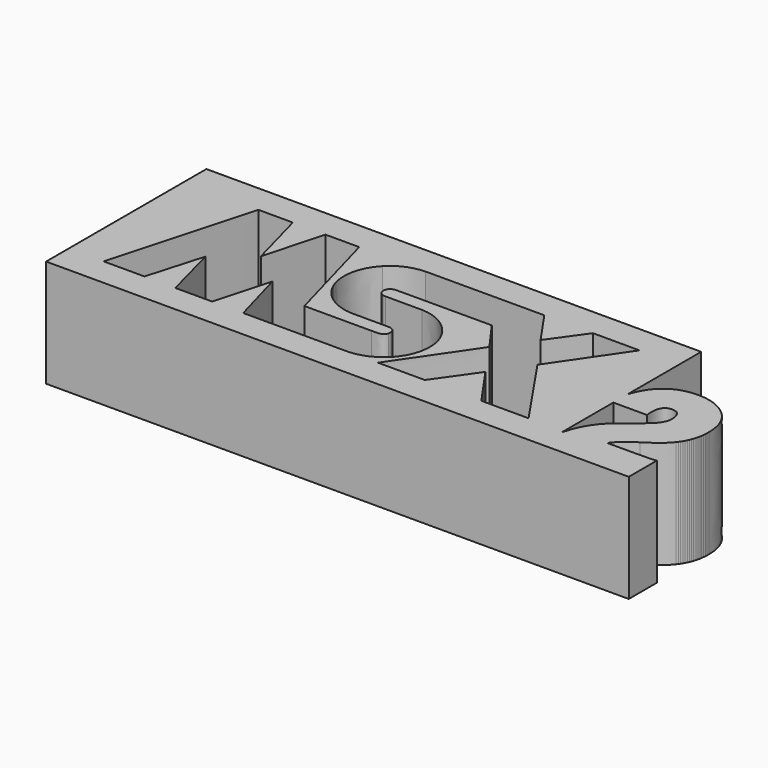
from build123d import *

# Parameters (mm, degrees)
EXTRUDE002_DEPTH = 16
EXTRUDE001_DEPTH = 16
EXTRUDE_DEPTH    = 10


with BuildPart() as extrude002:
    # path2410002 → Extrude002 (new body)
    with BuildSketch(Plane(origin=(49.495824, -13.706795, 0), x_dir=(0, -1, 0), z_dir=(0, 0, -1))):
        with BuildLine():
            add(Edge.make_bspline(
                [(-3.922172, -1.544505), (-3.922172, -2.158333), (-3.514202, -2.468342), (-2.696821, -2.468342)],
                knots=[0, 0, 0, 0, 1, 1, 1, 1], degree=3))
            add(Edge.make_bspline(
                [(-2.696821, -2.468342), (-2.176124, -2.468342), (-1.655065, -2.158333), (-1.135779, -1.544505)],
                knots=[0, 0, 0, 0, 1, 1, 1, 1], degree=3))
            add(Edge.make_bspline(
                [(-1.135779, -1.544505), (-0.424584, -0.680205), (0.108801, -0.030865), (0.464399, 0.410104)],
                knots=[0, 0, 0, 0, 1, 1, 1, 1], degree=3))
            add(Edge.make_bspline(
                [(0.464399, 0.410104), (1.335802, 1.436798), (2.489409, 2.121768), (3.922172, 2.468342)],
                knots=[0, 0, 0, 0, 1, 1, 1, 1], degree=3))
            add(Edge.make_bspline(
                [(3.922172, 2.468342), (-2.09324, 2.468342)],
                knots=[0, 0, 21.314453, 21.314453], degree=1))
            add(Edge.make_bspline(
                [(-2.09324, 2.468342), (-2.09324, -0.673034)],
                knots=[0, 0, 11.13086, 11.13086], degree=1))
            add(Edge.make_bspline(
                [(-2.09324, -0.673034), (-2.260103, -0.637756), (-2.437839, -0.623425), (-2.625163, -0.623425)],
                knots=[0, 0, 0, 0, 1, 1, 1, 1], degree=3))
            add(Edge.make_bspline(
                [(-2.625163, -0.623425), (-3.490521, -0.623425), (-3.922172, -0.930674), (-3.922172, -1.544505)],
                knots=[0, 0, 0, 0, 1, 1, 1, 1], degree=3))
        make_face()
    extrude(amount=-EXTRUDE002_DEPTH)


with BuildPart() as extrude002_1:
    # Extrude002 placement: moved
    add(extrude002.part.moved(Location((0, 0, -4))))


with BuildPart() as fusion:
    # path2410001 → Extrude001 (new body)
    with BuildSketch(Plane(origin=(24.024993, -10.743744, 0), x_dir=(0, -1, 0), z_dir=(0, 0, -1))):
        with BuildLine():
            add(Edge.make_bspline(
                [(-6.722077, -15.036877), (-6.720423, -19.362265)],
                knots=[0, 0, 15.326181, 15.326181], degree=1))
            add(Edge.make_bspline(
                [(-6.720423, -19.362265), (-0.333492, -14.987821)],
                knots=[0, 0, 27.430017, 27.430017], degree=1))
            add(Edge.make_bspline(
                [(-0.333492, -14.987821), (6.644894, -19.743153)],
                knots=[0, 0, 29.921763, 29.921763], degree=1))
            add(Edge.make_bspline(
                [(6.644894, -19.743153), (6.644894, -15.351069)],
                knots=[0, 0, 15.5625, 15.5625], degree=1))
            add(Edge.make_bspline(
                [(6.644894, -15.351069), (2.909308, -12.740514)],
                knots=[0, 0, 16.148154, 16.148154], degree=1))
            add(Edge.make_bspline(
                [(2.909308, -12.740514), (6.653162, -10.1035)],
                knots=[0, 0, 16.225981, 16.225981], degree=1))
            add(Edge.make_bspline(
                [(6.653162, -10.1035), (6.653162, -5.739529)],
                knots=[0, 0, 15.46289, 15.46289], degree=1))
            add(Edge.make_bspline(
                [(6.653162, -5.739529), (6.407842, -5.858062), (-0.333492, -10.517463), (-0.333492, -10.517463)],
                knots=[0, 0, 0, 0, 1, 1, 1, 1], degree=3))
            add(Edge.make_bspline(
                [(-0.333492, -10.517463), (-3.09508, -8.531435)],
                knots=[0, 0, 12.052809, 12.052809], degree=1))
            add(Edge.make_bspline(
                [(-3.09508, -8.531435), (-3.086812, -0.108866)],
                knots=[0, 0, 29.843762, 29.843762], degree=1))
            add(Edge.make_bspline(
                [(-3.086812, -0.108866), (-3.055062, 0.283773), (-3.17507, 0.764746), (-2.731278, 0.961594)],
                knots=[0, 0, 0, 0, 1, 1, 1, 1], degree=3))
            add(Edge.make_bspline(
                [(-2.731278, 0.961594), (-2.585229, 1.030738), (-2.367211, 1.060857), (-2.21975, 0.982541)],
                knots=[0, 0, 0, 0, 1, 1, 1, 1], degree=3))
            add(Edge.make_bspline(
                [(-2.21975, 0.982541), (-2.05324, 0.91375), (-1.89601, 0.756541), (-1.84768, 0.580153)],
                knots=[0, 0, 0, 0, 1, 1, 1, 1], degree=3))
            add(Edge.make_bspline(
                [(-1.84768, 0.580153), (-1.827285, 0.313916)],
                knots=[0, 0, 0.946123, 0.946123], degree=1))
            add(Edge.make_bspline(
                [(-1.827285, 0.313916), (-1.827285, -3.056214)],
                knots=[0, 0, 11.941406, 11.941406], degree=1))
            add(Edge.make_bspline(
                [(-1.827285, -3.056214), (-1.788833, -4.619008), (-0.816017, -6.065016), (0.589794, -6.741638)],
                knots=[0, 0, 0, 0, 1, 1, 1, 1], degree=3))
            add(Edge.make_bspline(
                [(0.589794, -6.741638), (1.769122, -7.342418), (3.381905, -7.253911), (4.50232, -6.583991)],
                knots=[0, 0, 0, 0, 1, 1, 1, 1], degree=3))
            add(Edge.make_bspline(
                [(4.50232, -6.583991), (5.925663, -5.739447), (6.722077, -4.236046), (6.664186, -2.605871)],
                knots=[0, 0, 0, 0, 1, 1, 1, 1], degree=3))
            add(Edge.make_bspline(
                [(6.664186, -2.605871), (6.664186, 6.770301)],
                knots=[0, 0, 33.222656, 33.222656], degree=1))
            add(Edge.make_bspline(
                [(6.664186, 6.770301), (6.664186, 6.770301), (1.484372, 8.206261), (1.474494, 8.216139)],
                knots=[0, 0, 0, 0, 1, 1, 1, 1], degree=3))
            add(Edge.make_bspline(
                [(1.474494, 8.216139), (6.664186, 9.661425)],
                knots=[0, 0, 19.088448, 19.088448], degree=1))
            add(Edge.make_bspline(
                [(6.664186, 9.661425), (6.665289, 13.080062)],
                knots=[0, 0, 12.113282, 12.113282], degree=1))
            add(Edge.make_bspline(
                [(6.665289, 13.080062), (1.455202, 14.455344)],
                knots=[0, 0, 19.093266, 19.093266], degree=1))
            add(Edge.make_bspline(
                [(1.455202, 14.455344), (6.653162, 15.960162)],
                knots=[0, 0, 19.174257, 19.174257], degree=1))
            add(Edge.make_bspline(
                [(6.653162, 15.960162), (6.653162, 19.743153)],
                knots=[0, 0, 13.404297, 13.404297], degree=1))
            add(Edge.make_bspline(
                [(6.653162, 19.743153), (6.653162, 19.743153), (-5.865956, 16.264762), (-6.692862, 16.038986)],
                knots=[0, 0, 0, 0, 1, 1, 1, 1], degree=3))
            add(Edge.make_bspline(
                [(-6.692862, 16.038986), (-6.692862, 12.844693)],
                knots=[0, 0, 11.318359, 11.318359], degree=1))
            add(Edge.make_bspline(
                [(-6.692862, 12.844693), (-1.109603, 11.340978)],
                knots=[0, 0, 20.488144, 20.488144], degree=1))
            add(Edge.make_bspline(
                [(-1.109603, 11.340978), (-6.692862, 9.807497)],
                knots=[0, 0, 20.515825, 20.515825], degree=1))
            add(Edge.make_bspline(
                [(-6.692862, 9.807497), (-6.692862, 6.672736)],
                knots=[0, 0, 11.107422, 11.107422], degree=1))
            add(Edge.make_bspline(
                [(-6.692862, 6.672736), (3.028921, 3.98942)],
                knots=[0, 0, 35.735313, 35.735313], degree=1))
            add(Edge.make_bspline(
                [(3.028921, 3.98942), (3.028921, -2.261361)],
                knots=[0, 0, 22.148437, 22.148437], degree=1))
            add(Edge.make_bspline(
                [(3.028921, -2.261361), (3.008107, -2.692806), (3.125381, -3.293237), (2.596217, -3.469625)],
                knots=[0, 0, 0, 0, 1, 1, 1, 1], degree=3))
            add(Edge.make_bspline(
                [(2.596217, -3.469625), (2.357741, -3.538769), (2.112338, -3.479943), (1.946886, -3.31308)],
                knots=[0, 0, 0, 0, 1, 1, 1, 1], degree=3))
            add(Edge.make_bspline(
                [(1.946886, -3.31308), (1.807893, -3.156095), (1.770497, -2.958669), (1.770497, -2.751943)],
                knots=[0, 0, 0, 0, 1, 1, 1, 1], degree=3))
            add(Edge.make_bspline(
                [(1.770497, -2.751943), (1.769395, 0.608817)],
                knots=[0, 0, 11.908204, 11.908204], degree=1))
            add(Edge.make_bspline(
                [(1.769395, 0.608817), (1.720006, 2.20054), (0.678309, 3.782674), (-0.852737, 4.372514)],
                knots=[0, 0, 0, 0, 1, 1, 1, 1], degree=3))
            add(Edge.make_bspline(
                [(-0.852737, 4.372514), (-2.386604, 5.012097), (-4.225145, 4.638325), (-5.412941, 3.468521)],
                knots=[0, 0, 0, 0, 1, 1, 1, 1], degree=3))
            add(Edge.make_bspline(
                [(-5.412941, 3.468521), (-6.241257, 2.643027), (-6.653153, 1.660352), (-6.701131, 0.509598)],
                knots=[0, 0, 0, 0, 1, 1, 1, 1], degree=3))
            add(Edge.make_bspline(
                [(-6.701131, 0.509598), (-6.712706, -10.517463)],
                knots=[0, 0, 39.072286, 39.072286], degree=1))
            add(Edge.make_bspline(
                [(-6.712706, -10.517463), (-3.508492, -12.740514)],
                knots=[0, 0, 13.818418, 13.818418], degree=1))
            add(Edge.make_bspline(
                [(-3.508492, -12.740514), (-6.722077, -15.036877)],
                knots=[0, 0, 13.995127, 13.995127], degree=1))
        make_face()
    extrude(amount=-EXTRUDE001_DEPTH)


with BuildPart() as fusion_1:
    # Extrude001 placement: moved
    add(fusion.part.moved(Location((0, 0, -4))))

    # Fusion: union Extrude002
    add(extrude002_1.part)


with BuildPart() as cut:
    # path2410 → Extrude (new body)
    with BuildSketch(Plane(origin=(28.190251, -10.715349, 0), x_dir=(0, 1, 0), z_dir=(0, 0, 1))):
        with BuildLine():
            add(Edge.make_bspline(
                [(9.314711, 27.16444), (-9.314711, 27.16444)],
                knots=[0, 0, 66.009765, 66.009765], degree=1))
            add(Edge.make_bspline(
                [(-9.314711, 27.16444), (-9.314711, -18.570993)],
                knots=[0, 0, 162.054684, 162.054684], degree=1))
            add(Edge.make_bspline(
                [(-9.314711, -18.570993), (-9.314711, -18.83723)],
                knots=[0, 0, 0.94336, 0.94336], degree=1))
            add(Edge.make_bspline(
                [(-9.314711, -18.83723), (-9.314711, -27.00569)],
                knots=[0, 0, 28.94336, 28.94336], degree=1))
            add(Edge.make_bspline(
                [(-9.314711, -27.00569), (-6.047658, -27.00569)],
                knots=[0, 0, 11.576172, 11.576172], degree=1))
            add(Edge.make_bspline(
                [(-6.047658, -27.00569), (-6.106889, -26.72347), (-6.136955, -26.437605), (-6.136955, -26.151858)],
                knots=[0, 0, 0, 0, 1, 1, 1, 1], degree=3))
            add(Edge.make_bspline(
                [(-6.136955, -26.151858), (-6.136955, -22.458164)],
                knots=[0, 0, 13.08789, 13.08789], degree=1))
            add(Edge.make_bspline(
                [(-6.136955, -22.458164), (-5.603841, -22.839164), (-5.081507, -23.435584), (-4.573158, -24.254023)],
                knots=[0, 0, 0, 0, 1, 1, 1, 1], degree=3))
            add(Edge.make_bspline(
                [(-4.573158, -24.254023), (-3.983317, -25.199462), (-3.430617, -25.876694), (-2.922268, -26.27533)],
                knots=[0, 0, 0, 0, 1, 1, 1, 1], degree=3))
            add(Edge.make_bspline(
                [(-2.922268, -26.27533), (-2.780605, -26.384471)],
                knots=[0, 0, 0.633648, 0.633648], degree=1))
            add(Edge.make_bspline(
                [(-2.780605, -26.384471), (-2.635085, -26.483689)],
                knots=[0, 0, 0.624069, 0.624069], degree=1))
            add(Edge.make_bspline(
                [(-2.635085, -26.483689), (-2.485705, -26.578499)],
                knots=[0, 0, 0.626906, 0.626906], degree=1))
            add(Edge.make_bspline(
                [(-2.485705, -26.578499), (-2.333019, -26.666693)],
                knots=[0, 0, 0.624784, 0.624784], degree=1))
            add(Edge.make_bspline(
                [(-2.333019, -26.666693), (-2.176474, -26.744414)],
                knots=[0, 0, 0.619288, 0.619288], degree=1))
            add(Edge.make_bspline(
                [(-2.176474, -26.744414), (-2.01607, -26.818828)],
                knots=[0, 0, 0.626542, 0.626542], degree=1))
            add(Edge.make_bspline(
                [(-2.01607, -26.818828), (-1.851808, -26.885525)],
                knots=[0, 0, 0.628181, 0.628181], degree=1))
            add(Edge.make_bspline(
                [(-1.851808, -26.885525), (-1.684238, -26.9423)],
                knots=[0, 0, 0.626904, 0.626904], degree=1))
            add(Edge.make_bspline(
                [(-1.684238, -26.9423), (-1.512259, -26.995217)],
                knots=[0, 0, 0.637569, 0.637569], degree=1))
            add(Edge.make_bspline(
                [(-1.512259, -26.995217), (-1.336973, -27.040968)],
                knots=[0, 0, 0.641901, 0.641901], degree=1))
            add(Edge.make_bspline(
                [(-1.336973, -27.040968), (-1.157276, -27.079553)],
                knots=[0, 0, 0.651232, 0.651232], degree=1))
            add(Edge.make_bspline(
                [(-1.157276, -27.079553), (-0.974824, -27.111523)],
                knots=[0, 0, 0.656334, 0.656334], degree=1))
            add(Edge.make_bspline(
                [(-0.974824, -27.111523), (-0.787411, -27.13247)],
                knots=[0, 0, 0.668198, 0.668198], degree=1))
            add(Edge.make_bspline(
                [(-0.787411, -27.13247), (-0.597242, -27.150109)],
                knots=[0, 0, 0.67672, 0.67672], degree=1))
            add(Edge.make_bspline(
                [(-0.597242, -27.150109), (-0.402663, -27.160582)],
                knots=[0, 0, 0.690451, 0.690451], degree=1))
            add(Edge.make_bspline(
                [(-0.402663, -27.160582), (-0.204776, -27.16444)],
                knots=[0, 0, 0.701305, 0.701305], degree=1))
            add(Edge.make_bspline(
                [(-0.204776, -27.16444), (1.074035, -27.16444), (2.085549, -26.733935), (2.831317, -25.869635)],
                knots=[0, 0, 0, 0, 1, 1, 1, 1], degree=3))
            add(Edge.make_bspline(
                [(2.831317, -25.869635), (3.528402, -25.051197), (3.879729, -24.056569), (3.879729, -22.885355)],
                knots=[0, 0, 0, 0, 1, 1, 1, 1], degree=3))
            add(Edge.make_bspline(
                [(3.879729, -22.885355), (3.879729, -21.417808), (3.316005, -20.292103), (2.191356, -19.51247)],
                knots=[0, 0, 0, 0, 1, 1, 1, 1], degree=3))
            add(Edge.make_bspline(
                [(2.191356, -19.51247), (1.751119, -19.213145), (1.275777, -18.988471), (0.765362, -18.83723)],
                knots=[0, 0, 0, 0, 1, 1, 1, 1], degree=3))
            add(Edge.make_bspline(
                [(0.765362, -18.83723), (9.314711, -18.83723)],
                knots=[0, 0, 30.292968, 30.292968], degree=1))
            add(Edge.make_bspline(
                [(9.314711, -18.83723), (9.314711, 27.16444)],
                knots=[0, 0, 162.998044, 162.998044], degree=1))
        make_face()
    extrude(amount=EXTRUDE_DEPTH)

    # Cut: cut Fusion
    add(fusion_1.part, mode=Mode.SUBTRACT)


solid = cut.part
